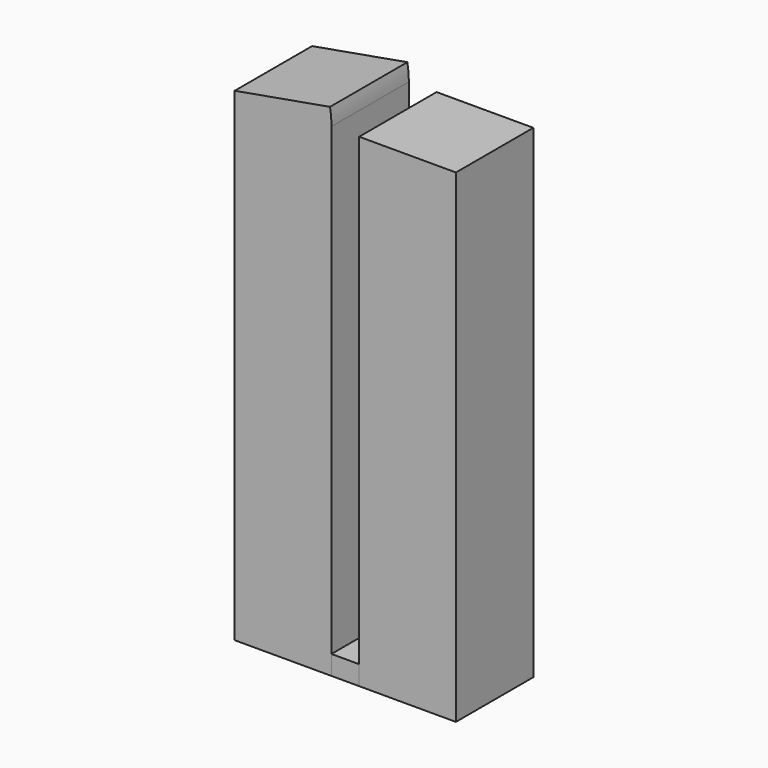
from build123d import *

# Parameters (mm, degrees)
F0_W      = 10
F0_H      = 10
F1_DEPTH  = 50
F0_W_2    = 2.86611
F2_DEPTH  = 2
F1_FACE_W = 10
F1_FACE_H = 10
F3_ANGLE  = 10


with BuildPart() as f1:
    # F0 (on Top) → F1 (new body)
    with BuildSketch(Plane.XY):
        with Locations((17.86611, -5)):
            Rectangle(F0_W, F0_H)
        with Locations((5, -5)):
            Rectangle(F0_W, F0_H)
    extrude(amount=F1_DEPTH)

    # F1_face (on face) → F3 (revolve)
    with BuildSketch(Plane(origin=(5, -5, 50), x_dir=(1, 0, 0), z_dir=(0, 0, 1))):
        Rectangle(F1_FACE_W, F1_FACE_H)
    revolve(axis=Axis((0, -5, 50), (0, -1, 0)), revolution_arc=F3_ANGLE)


with BuildPart() as f2:
    # F0 (on Top) → F2 (new body)
    with BuildSketch(Plane.XY):
        with Locations((11.433055, -5)):
            Rectangle(F0_W_2, F0_H)
    extrude(amount=F2_DEPTH)


solid = Compound([f1.part, f2.part])
